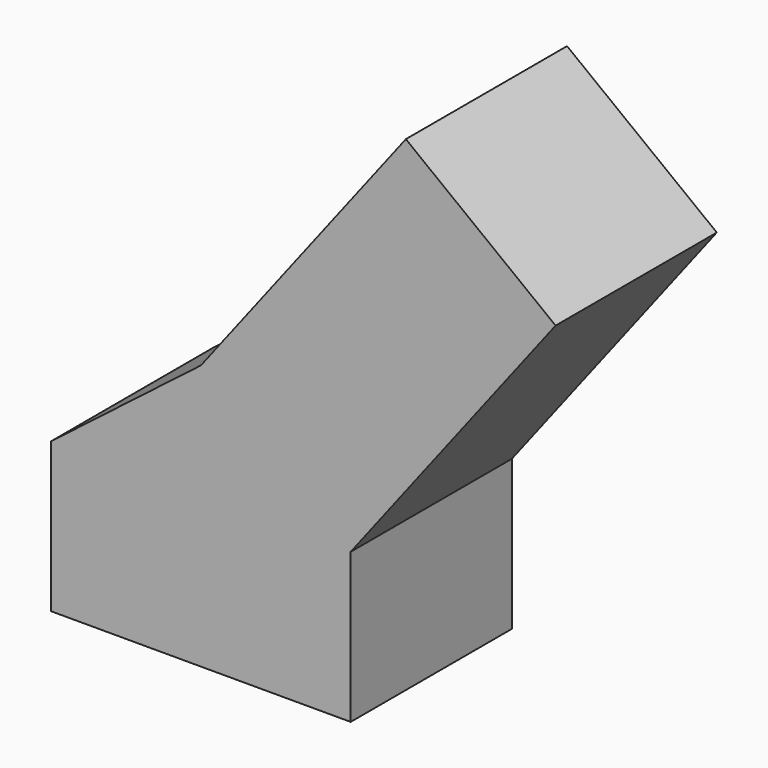
from build123d import *

# Parameters (mm, degrees)
F0_W     = 148.616835475
F0_H     = 74.3084251881
F1_DEPTH = 100
F2_DEPTH = 166.5562391281


with BuildPart() as f1:
    # F0 (on Front) → F1 (new body)
    with BuildSketch(Plane.XZ):
        Polygon((0, 57.283565402), (-74.3084102869, 0), (74.3084251881, 0), align=None)
        with Locations((7.4506e-06, -37.154212594)):
            Rectangle(F0_W, F0_H)
    extrude(amount=F1_DEPTH)

    # F2 (add): a face of the model
    f2_faces = [f1.faces().sort_by_distance(p)[0] for p in [
        (37.154212594, -50, 28.641782701),
    ]]
    extrude(f2_faces, amount=F2_DEPTH)


solid = f1.part
